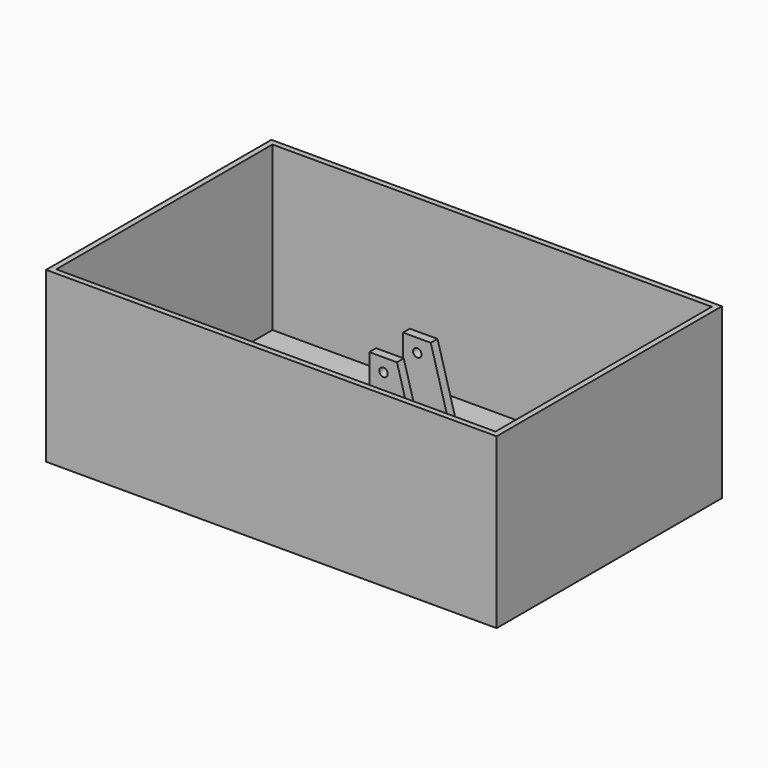
from build123d import *

# Parameters (mm, degrees)
F0_W     = 160
F0_H     = 100
F2_DEPTH = 60
F3_T     = -2
F4_R     = 1.5
F5_DEPTH = 9
F6_W     = 66.8862648116
F6_H     = 12
F7_DEPTH = 26


with BuildPart() as f2:
    # F0 (on Top) → F2 (new body)
    with BuildSketch(Plane.XY):
        Rectangle(F0_W, F0_H)
    extrude(amount=F2_DEPTH)

    # F3
    f3_openings = [f2.faces().sort_by_distance(p)[0] for p in [
        (0, 0, 60),
    ]]
    offset(amount=F3_T, openings=f3_openings)

    # F4 (on Front) → F5 (join, symmetric)
    with BuildSketch(Plane.XZ):
        Polygon((1.976594096, 44.2819991666), (1.976594096, 0), (24.1503274081, 0), (11.8152030863, 44.2819991666), align=None)
        with Locations((7.0080704532, 39.5950130723)):
            Circle(F4_R, mode=Mode.SUBTRACT)
    extrude(amount=F5_DEPTH, both=True)

    # F6 (on face) → F7 (cut)
    with BuildSketch(Plane.XY.offset(44.2819991666)):
        with Locations((3.9056837824, 0)):
            Rectangle(F6_W, F6_H)
    extrude(amount=-F7_DEPTH, mode=Mode.SUBTRACT)


solid = f2.part
